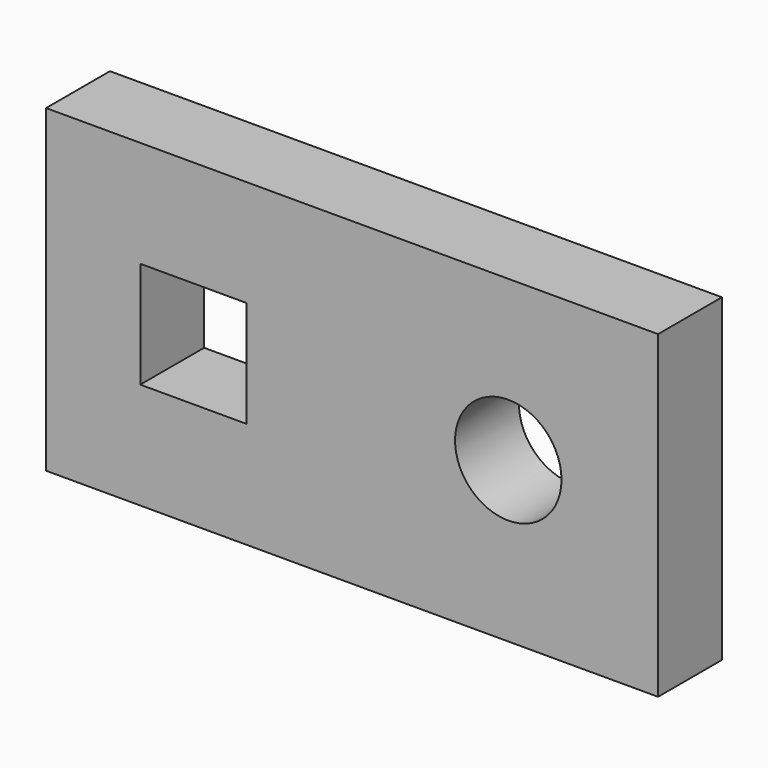
from build123d import *

# Parameters (mm, degrees)
F0_W     = 146.05
F0_H     = 76.2
F1_DEPTH = 19.05
F2_W     = 25.4
F2_H     = 25.4
F3_DEPTH = 19.05
F4_R     = 12.7
F5_DEPTH = 19.05


with BuildPart() as f1:
    # F0 (on Front) → F1 (new body)
    with BuildSketch(Plane.XZ):
        Rectangle(F0_W, F0_H)
    extrude(amount=F1_DEPTH)

    # F2 (on face) → F3 (cut)
    with BuildSketch(Plane.XZ.offset(19.05)):
        with Locations((-37.85089, 0)):
            Rectangle(F2_W, F2_H)
    extrude(amount=-F3_DEPTH, mode=Mode.SUBTRACT)

    # F4 (on face) → F5 (cut)
    with BuildSketch(Plane.XZ.offset(19.05)):
        with Locations((37.281033, 0)):
            Circle(F4_R)
    extrude(amount=-F5_DEPTH, mode=Mode.SUBTRACT)


solid = f1.part
